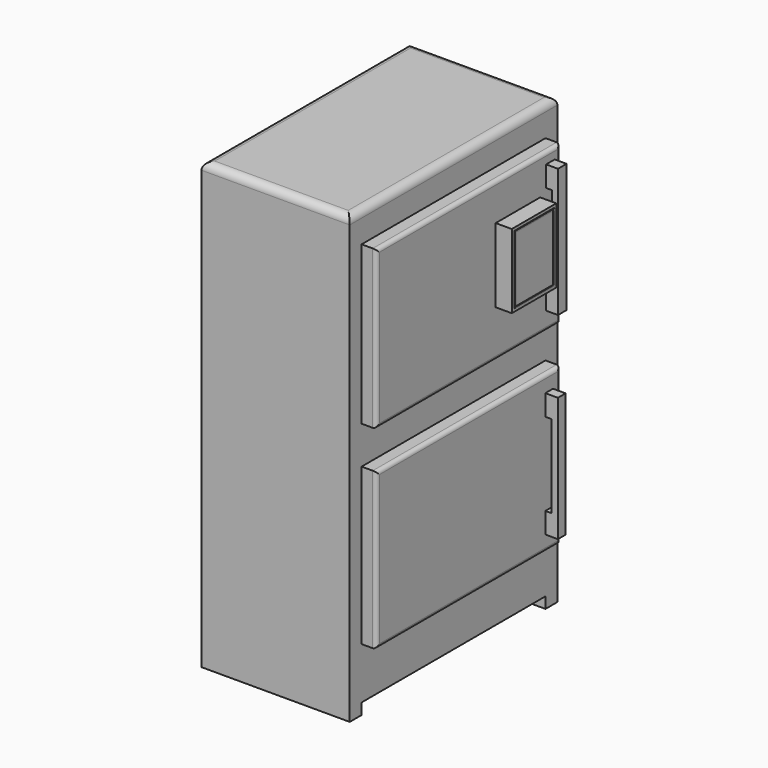
from build123d import *

# Parameters (mm, degrees)
F0_W      = 50.8
F0_H      = 88.9
F1_DEPTH  = 152.4
F2_R      = 2.54
F3_W      = 78.74
F3_H      = 54.0994407277
F3_H_2    = 53.5289765078
F4_DEPTH  = 5.08
F5_W      = 78.74
F5_H      = 3.81
F6_DEPTH  = 50.801
F7_W      = 19.05
F7_H      = 25.4
F8_DEPTH  = 3.81
F9_R      = 1.27
F10_W     = 3.6719054915
F10_H     = 7.1212798357
F10_H_2   = 7.121271
F11_DEPTH = 4.064
F12_W     = 2.032
F12_H     = 3.6719054915
F13_DEPTH = 29.9466
F14_W     = 3.3000995283
F14_H     = 7.121271
F15_DEPTH = 4.318
F16_W     = 2.159
F16_H     = 3.3000995283
F17_DEPTH = 28.702
F18_DEPTH = 1.7018
F19_W     = 17.0083576813
F19_H     = 23.3957841992
F20_DEPTH = 0.0254
F21_W     = 17.0083576813
F21_H     = 23.3957841992
F21_W_2   = 16.1336986348
F21_H_2   = 22.4836915731
F22_DEPTH = 0.2032


with BuildPart() as f1:
    # F0 (on Top) → F1 (new body)
    with BuildSketch(Plane.XY):
        with Locations((25.4, -44.45)):
            Rectangle(F0_W, F0_H)
    extrude(amount=F1_DEPTH)

    # F2
    f2_edges = [f1.edges().sort_by_distance(p)[0] for p in [
        (50.8, -44.45, 152.4),
        (25.4, -88.9, 152.4),
        (25.4, 0, 152.4),
        (0, -44.45, 152.4),
    ]]
    fillet(f2_edges, radius=F2_R)

    # F3 (on face) → F4 (join)
    with BuildSketch(Plane.YZ.offset(50.8)):
        with Locations((-44.45, 114.9161458015)):
            Rectangle(F3_W, F3_H)
        with Locations((-44.45, 48.1655117461)):
            Rectangle(F3_W, F3_H_2)
    extrude(amount=F4_DEPTH)

    # F5 (on face) → F6 (cut, through all)
    with BuildSketch(Plane.YZ.offset(50.8)):
        with Locations((-44.45, 1.905)):
            Rectangle(F5_W, F5_H)
    extrude(amount=-F6_DEPTH, mode=Mode.SUBTRACT)

    # F9
    f9_edges = [f1.edges().sort_by_distance(p)[0] for p in [
        (55.88, -44.45, 74.93),
        (55.88, -83.82, 48.165512),
        (55.88, -44.45, 21.401023),
        (55.88, -5.08, 48.165512),
        (55.88, -5.08, 114.916146),
        (55.88, -44.45, 87.866425),
        (55.88, -83.82, 114.916146),
        (55.88, -44.45, 141.965866),
    ]]
    fillet(f9_edges, radius=F9_R)

    # F10 (on face) → F11 (join)
    with BuildSketch(Plane.YZ.offset(55.88)):
        with Locations((-9.3209201004, 97.6251736283)):
            Rectangle(F10_W, F10_H)
        with Locations((-9.3209201004, 134.6189261008)):
            Rectangle(F10_W, F10_H_2)
    extrude(amount=F11_DEPTH)

    # F12 (on face) → F13 (join)
    with BuildSketch(Plane.XY.offset(101.1858135462)):
        with Locations((58.928, -9.3209201004)):
            Rectangle(F12_W, F12_H)
    extrude(amount=F13_DEPTH)

    # F14 (on face) → F15 (join)
    with BuildSketch(Plane.YZ.offset(55.88)):
        with Locations((-9.8717217334, 30.2711736936)):
            Rectangle(F14_W, F14_H)
        with Locations((-9.8717217334, 65.7874699682)):
            Rectangle(F14_W, F14_H)
    extrude(amount=F15_DEPTH)

    # F16 (on face) → F17 (join)
    with BuildSketch(Plane.XY.offset(33.8318091936)):
        with Locations((59.1185, -9.8717217334)):
            Rectangle(F16_W, F16_H)
    extrude(amount=F17_DEPTH)


with BuildPart() as f8:
    # F7 (on face) → F8 (new body)
    with BuildSketch(Plane.YZ.offset(55.88)):
        with Locations((-23.2323434122, 116.5658661654)):
            Rectangle(F7_W, F7_H)
    extrude(amount=F8_DEPTH)

    # F18 (add): faces of the model
    f18_faces = [f8.faces().sort_by_distance(p)[0] for p in [
        (59.69, -23.2323434122, 116.5658661654),
        (59.69, -23.2323434122, 116.5658661654),
        (59.69, -23.2323434122, 116.5658661654),
        (59.69, -23.2323434122, 116.5658661654),
    ]]
    extrude(f18_faces, amount=F18_DEPTH)


with BuildPart() as f20:
    # F19 (on face) → F20 (new body)
    with BuildSketch(Plane.YZ.offset(61.3918)):
        with Locations((-23.1437156908, 116.5577434003)):
            Rectangle(F19_W, F19_H)
    extrude(amount=F20_DEPTH)


with BuildPart() as f22:
    # F21 (on face) → F22 (new body)
    with BuildSketch(Plane.YZ.offset(61.4172)):
        with Locations((-23.1437156908, 116.5577434003)):
            Rectangle(F21_W, F21_H)
        with Locations((-23.232343141, 116.5423467755)):
            Rectangle(F21_W_2, F21_H_2, mode=Mode.SUBTRACT)
    extrude(amount=F22_DEPTH)


solid = Compound([f1.part, f8.part, f20.part, f22.part])
